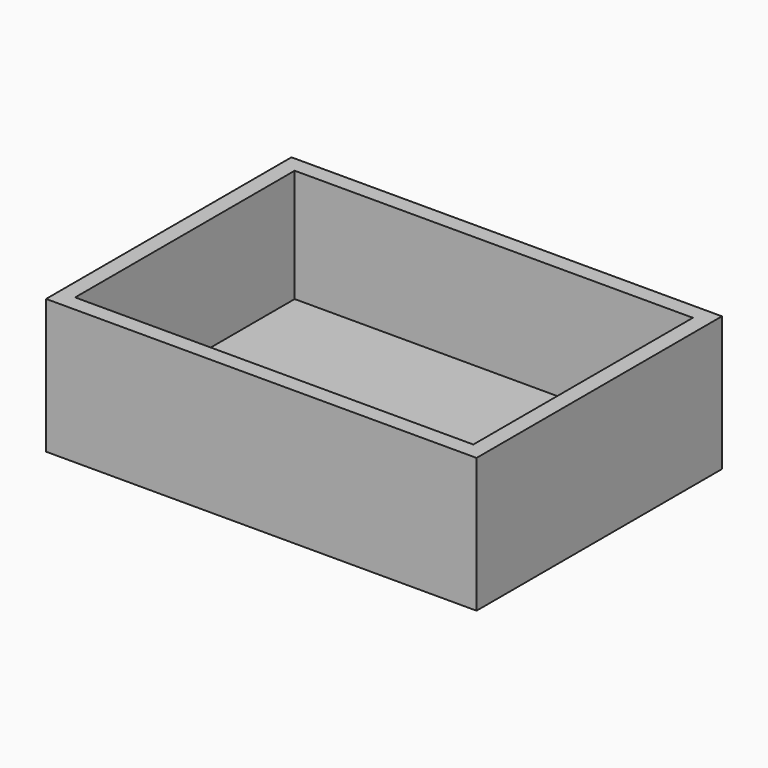
from build123d import *

# Parameters (mm, degrees)
F0_W     = 80
F0_H     = 57
F0_W_2   = 74
F0_H_2   = 51
F1_DEPTH = 4
F2_DEPTH = 25


with BuildPart() as f1:
    # F0 (on Top) → F1 (new body)
    with BuildSketch(Plane.XY):
        with Locations((-40, 28.5)):
            Rectangle(F0_W, F0_H)
        with Locations((-40, 28.5)):
            Rectangle(F0_W_2, F0_H_2, mode=Mode.SUBTRACT)
        with Locations((-40, 28.5)):
            Rectangle(F0_W_2, F0_H_2)
    extrude(amount=F1_DEPTH)

    # F0 (on Top) → F2 (join)
    with BuildSketch(Plane.XY):
        with Locations((-40, 28.5)):
            Rectangle(F0_W, F0_H)
        with Locations((-40, 28.5)):
            Rectangle(F0_W_2, F0_H_2, mode=Mode.SUBTRACT)
    extrude(amount=F2_DEPTH)


solid = f1.part
